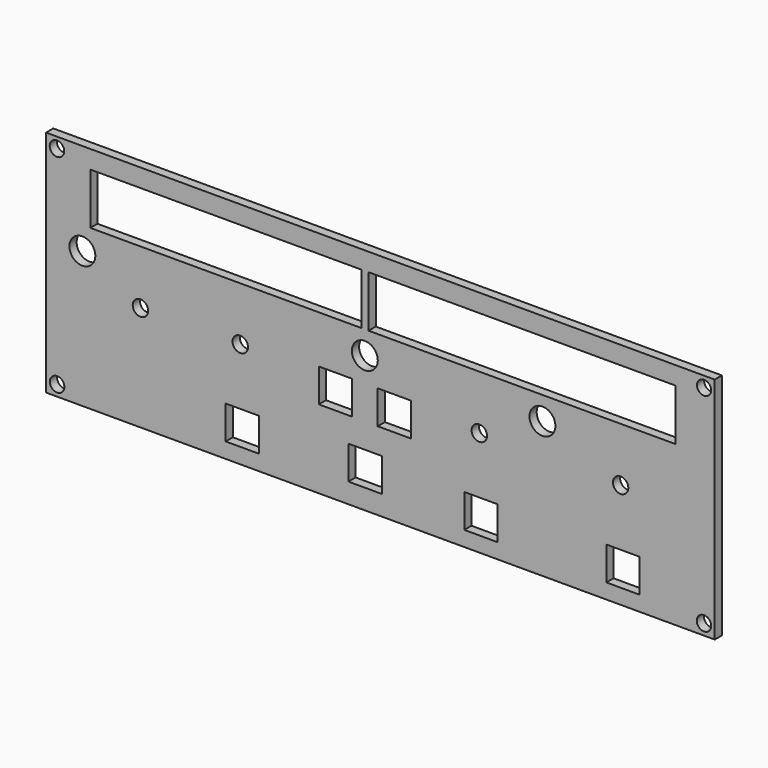
from build123d import *

# Parameters (mm, degrees)
F0_W     = 260
F0_H     = 89.005201
F0_R     = 2.82775
F0_W_2   = 12.989715
F0_H_2   = 12.989714
F0_W_3   = 12.989714
F0_R_2   = 3
F0_H_3   = 12.989715
F0_R_3   = 2.803131
F0_R_4   = 5.036279
F0_R_5   = 2.818903
F0_W_4   = 105.476833
F0_H_4   = 19.987789
F0_W_5   = 119.430337
F0_H_5   = 20.02554
F0_R_6   = 2.750713
F1_DEPTH = 3.5


with BuildPart() as f1:
    # F0 (on Front) → F1 (new body)
    with BuildSketch(Plane.XZ):
        with Locations((6.165549, -8.466624)):
            Rectangle(F0_W, F0_H)
        with Locations((-119.530725, -48.750805)):
            Circle(F0_R, mode=Mode.SUBTRACT)
        with Locations((-47.507185, -40.488109)):
            Rectangle(F0_W_2, F0_H_2, mode=Mode.SUBTRACT)
        with Locations((0.208343, -38.716644)):
            Rectangle(F0_W_3, F0_H_2, mode=Mode.SUBTRACT)
        with Locations((-87.138941, -12.073411)):
            Circle(F0_R_2, mode=Mode.SUBTRACT)
        with Locations((-48.31415, -11.888038)):
            Circle(F0_R_2, mode=Mode.SUBTRACT)
        with Locations((-11.29703, -16.023463)):
            Rectangle(F0_W_2, F0_H_3, mode=Mode.SUBTRACT)
        with Locations((45.284561, -40.589101)):
            Rectangle(F0_W_2, F0_H_3, mode=Mode.SUBTRACT)
        with Locations((131.980783, -48.75189)):
            Circle(F0_R_3, mode=Mode.SUBTRACT)
        with Locations((100.51427, -40.614668)):
            Rectangle(F0_W_2, F0_H_3, mode=Mode.SUBTRACT)
        with Locations((11.612037, -16.064093)):
            Rectangle(F0_W_2, F0_H_3, mode=Mode.SUBTRACT)
        with Locations((44.635646, -12.060291)):
            Circle(F0_R_2, mode=Mode.SUBTRACT)
        with Locations((99.56491, -12.017582)):
            Circle(F0_R_2, mode=Mode.SUBTRACT)
        with Locations((-109.724605, 0.064185)):
            Circle(F0_R_4, mode=Mode.SUBTRACT)
        with Locations((0.11, 0)):
            Circle(F0_R_4, mode=Mode.SUBTRACT)
        with Locations((-119.599623, 31.921578)):
            Circle(F0_R_5, mode=Mode.SUBTRACT)
        with Locations((-53.911786, 18.991687)):
            Rectangle(F0_W_4, F0_H_4, mode=Mode.SUBTRACT)
        with Locations((69.175027, 0)):
            Circle(F0_R_4, mode=Mode.SUBTRACT)
        with Locations((61.29036, 19.010563)):
            Rectangle(F0_W_5, F0_H_5, mode=Mode.SUBTRACT)
        with Locations((132.025224, 31.895914)):
            Circle(F0_R_6, mode=Mode.SUBTRACT)
    extrude(amount=-F1_DEPTH)


solid = f1.part
